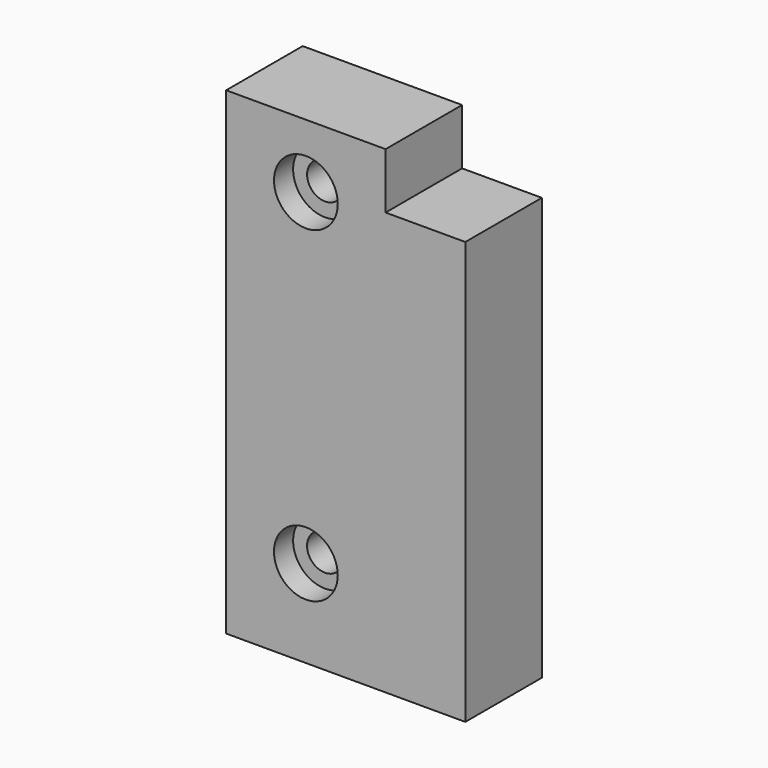
from build123d import *

# Parameters (mm, degrees)
F0_R     = 2.25
F1_DEPTH = 12
F2_R     = 4
F2_R_2   = 2.25
F3_DEPTH = 3


with BuildPart() as f1:
    # F0 (on Front) → F1 (new body)
    with BuildSketch(Plane.XZ):
        Polygon((0, 60), (0, 0), (30, 0), (30, 53), (20, 53), (20, 60), align=None)
        with Locations((10, 11)):
            Circle(F0_R, mode=Mode.SUBTRACT)
        with Locations((10, 52)):
            Circle(F0_R, mode=Mode.SUBTRACT)
    extrude(amount=F1_DEPTH)

    # F2 (on face) → F3 (cut)
    with BuildSketch(Plane.XZ.offset(12)):
        with Locations((10, 52)):
            Circle(F2_R)
        with Locations((10, 52)):
            Circle(F2_R_2, mode=Mode.SUBTRACT)
        with Locations((10, 11)):
            Circle(F2_R)
        with Locations((10, 11)):
            Circle(F2_R_2, mode=Mode.SUBTRACT)
    extrude(amount=-F3_DEPTH, mode=Mode.SUBTRACT)


solid = f1.part
